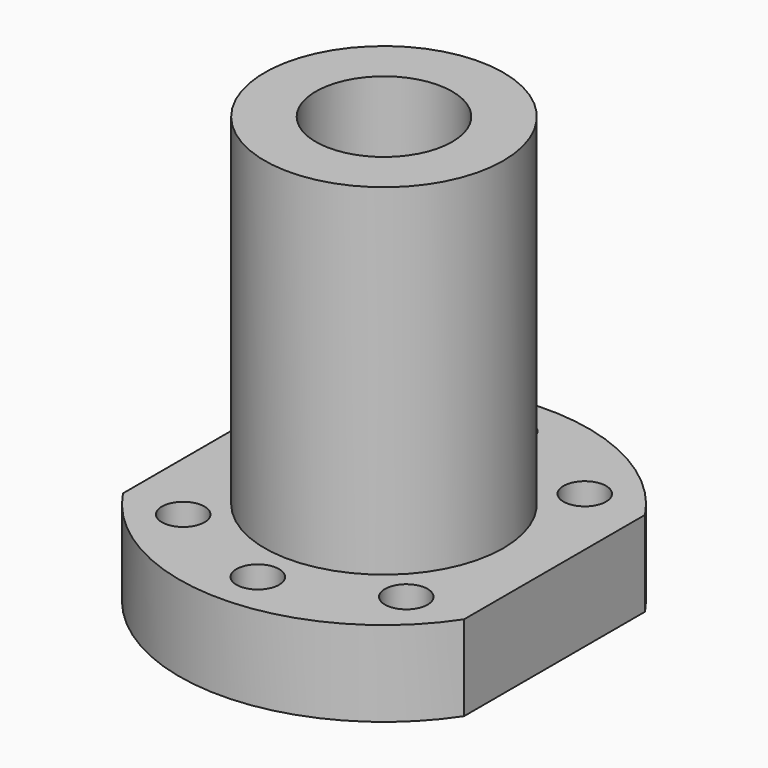
from build123d import *

# Parameters (mm, degrees)
SKETCH_R      = 2.5
SKETCH_R_2    = 8.5
PAD_DEPTH     = 10
SKETCH001_R   = 14
SKETCH001_R_2 = 8
PAD001_DEPTH  = 40


with BuildPart() as part:
    # Sketch → Pad (new body)
    with BuildSketch(Plane.XY):
        with BuildLine():
            ThreePointArc((20, 13.266499), (0, 24), (-20, 13.266499))
            Line((-20, 13.266499), (-20, -13.266499))
            ThreePointArc((-20, -13.266499), (0, -24), (20, -13.266499))
            Line((20, 13.266499), (20, -13.266499))
        make_face()
        with Locations((0, 18.5)):
            Circle(SKETCH_R, mode=Mode.SUBTRACT)
        with Locations((0, -18.5)):
            Circle(SKETCH_R, mode=Mode.SUBTRACT)
        Circle(SKETCH_R_2, mode=Mode.SUBTRACT)
        with Locations((-13.081476, 13.081475)):
            Circle(SKETCH_R, mode=Mode.SUBTRACT)
        with Locations((-13.081476, -13.081475)):
            Circle(SKETCH_R, mode=Mode.SUBTRACT)
        with Locations((13.081476, -13.081475)):
            Circle(SKETCH_R, mode=Mode.SUBTRACT)
        with Locations((13.081476, 13.081475)):
            Circle(SKETCH_R, mode=Mode.SUBTRACT)
    extrude(amount=PAD_DEPTH)

    # Sketch001 → Pad001 (new body)
    with BuildSketch(Plane.XY.offset(10)):
        Circle(SKETCH001_R)
        Circle(SKETCH001_R_2, mode=Mode.SUBTRACT)
    extrude(amount=PAD001_DEPTH)


solid = part.part
